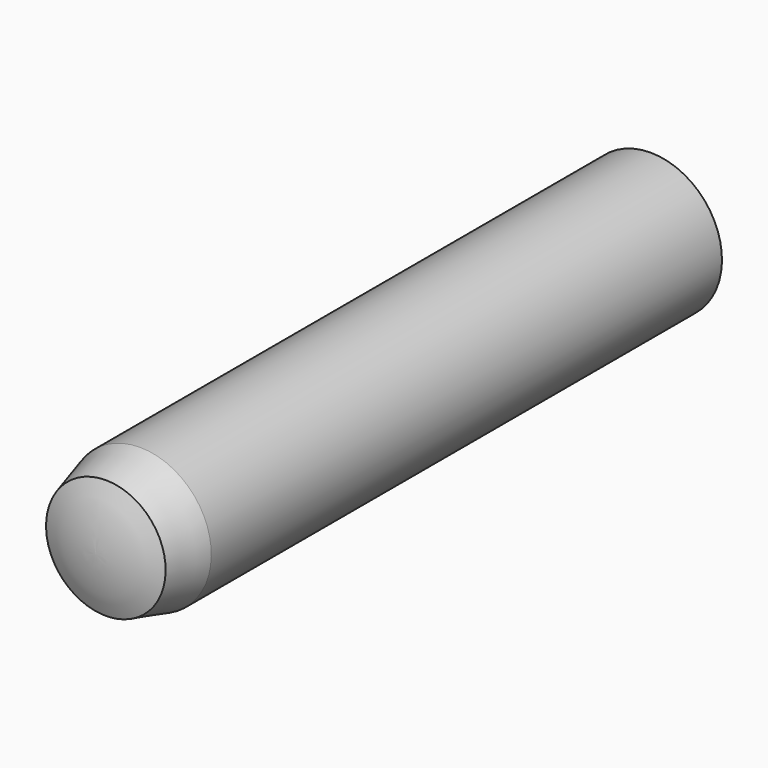
from build123d import *


with BuildPart() as part:
    # Sketch → Revolution (revolve)
    with BuildSketch(Plane.YZ):
        with BuildLine():
            ThreePointArc((0, 0.83923), (-0.134494, 0.429158), (-0.18, 0))
            Line((-0.18, 0), (9.82, 0))
            ThreePointArc((9.82, 0), (9.753683, 0.516746), (9.559029, 1))
            Line((0.6, 1), (9.559029, 1))
            Line((0, 0.83923), (0.6, 1))
        make_face()
    revolve(axis=Axis((0, 0, 0), (0, 1, 0)))


solid = part.part
